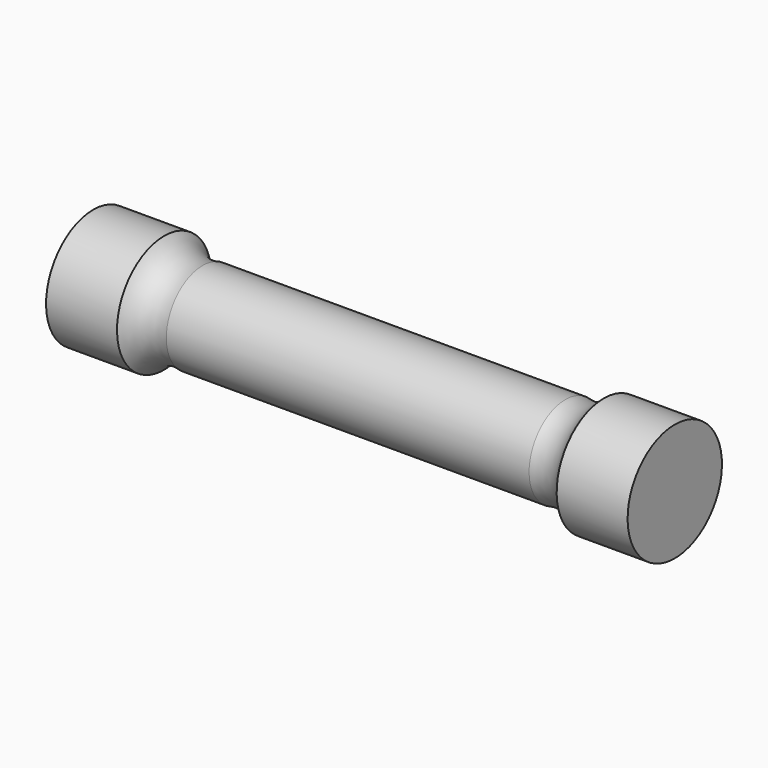
from build123d import *


with BuildPart() as f1:
    # F0 (on Front) → F1 (revolve)
    with BuildSketch(Plane.XZ):
        with BuildLine():
            Line((-16.031526, 0), (0, 0))
            Line((0, 0), (16.031526, 0))
            Line((16.031526, 0), (16.031526, 3.25))
            Line((16.031526, 3.25), (12.119266, 3.25))
            ThreePointArc((12.119266, 3.25), (11.174981, 2.549062), (10, 2.5))
            Line((10, 2.5), (0, 2.5))
            Line((0, 2.5), (-10, 2.5))
            ThreePointArc((-10, 2.5), (-11.174981, 2.549062), (-12.119266, 3.25))
            Line((-12.119266, 3.25), (-16.031526, 3.25))
            Line((-16.031526, 3.25), (-16.031526, 0))
        make_face()
    revolve(axis=Axis((-8.015763, 0, 0), (-1, 0, 0)))


solid = f1.part
